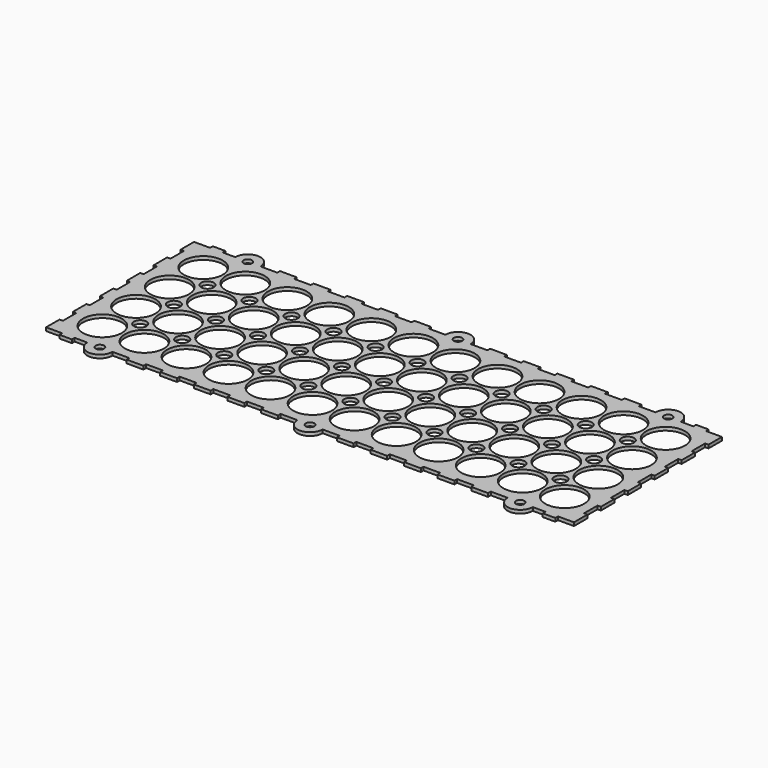
from build123d import *

# Parameters (mm, degrees)
F0_R     = 2
F0_R_2   = 9.25
F0_R_3   = 3
F1_DEPTH = 1.6


with BuildPart() as f1:
    # F0 (on Top) → F1 (new body)
    with BuildSketch(Plane.XY):
        with BuildLine():
            ThreePointArc((-94.017778, 44.461538), (-100, 50), (-105.982222, 44.461538))
            ThreePointArc((-105.982222, 44.461538), (-106.141058, 44.1331), (-106.480741, 44))
            Line((-106.480741, 44), (-111.5, 44))
            ThreePointArc((-111.5, 44), (-111.853553, 44.146447), (-112, 44.5))
            Line((-112, 44.5), (-112, 45.6))
            Line((-112, 45.6), (-118, 45.6))
            Line((-118, 45.6), (-118, 44.5))
            ThreePointArc((-118, 44.5), (-118.146447, 44.146447), (-118.5, 44))
            Line((-118.5, 44), (-124, 44))
            Line((-124, 44), (-125.6, 44))
            Line((-125.6, 44), (-125.6, 36))
            Line((-125.6, 36), (-124, 36))
            Line((-124, 36), (-124, 28))
            Line((-124, 28), (-125.6, 28))
            Line((-125.6, 28), (-125.6, 20))
            Line((-125.6, 20), (-124, 20))
            Line((-124, 20), (-124, 12))
            Line((-124, 12), (-125.6, 12))
            Line((-125.6, 12), (-125.6, 4))
            Line((-125.6, 4), (-124, 4))
            Line((-124, 4), (-124, -4))
            Line((-124, -4), (-125.6, -4))
            Line((-125.6, -4), (-125.6, -12))
            Line((-125.6, -12), (-124, -12))
            Line((-124, -12), (-124, -20))
            Line((-124, -20), (-125.6, -20))
            Line((-125.6, -20), (-125.6, -28))
            Line((-125.6, -28), (-124, -28))
            Line((-124, -28), (-124, -36))
            Line((-124, -36), (-125.6, -36))
            Line((-125.6, -36), (-125.6, -44))
            Line((-125.6, -44), (-124, -44))
            Line((-124, -44), (-118, -44))
            Line((-118, -44), (-118, -45.6))
            Line((-118, -45.6), (-112, -45.6))
            Line((-112, -45.6), (-112, -44))
            Line((-112, -44), (-106, -44))
            ThreePointArc((-106, -44), (-100, -50), (-94, -44))
            Line((-94, -44), (-86, -44))
            Line((-86, -44), (-86, -45.6))
            Line((-86, -45.6), (-78, -45.6))
            Line((-78, -45.6), (-78, -44))
            Line((-78, -44), (-70, -44))
            Line((-70, -44), (-70, -45.6))
            Line((-70, -45.6), (-62, -45.6))
            Line((-62, -45.6), (-62, -44))
            Line((-62, -44), (-54, -44))
            Line((-54, -44), (-54, -45.6))
            Line((-54, -45.6), (-46, -45.6))
            Line((-46, -45.6), (-46, -44))
            Line((-46, -44), (-38, -44))
            Line((-38, -44), (-38, -45.6))
            Line((-38, -45.6), (-30, -45.6))
            Line((-30, -45.6), (-30, -44))
            Line((-30, -44), (-22, -44))
            Line((-22, -44), (-22, -45.6))
            Line((-22, -45.6), (-14, -45.6))
            Line((-14, -45.6), (-14, -44))
            Line((-14, -44), (-6, -44))
            ThreePointArc((-6, -44), (0, -50), (6, -44))
            Line((6, -44), (14, -44))
            Line((14, -44), (14, -45.6))
            Line((14, -45.6), (22, -45.6))
            Line((22, -45.6), (22, -44))
            Line((22, -44), (30, -44))
            Line((30, -44), (30, -45.6))
            Line((30, -45.6), (38, -45.6))
            Line((38, -45.6), (38, -44))
            Line((38, -44), (46, -44))
            Line((46, -44), (46, -45.6))
            Line((46, -45.6), (54, -45.6))
            Line((54, -45.6), (54, -44))
            Line((54, -44), (62, -44))
            Line((62, -44), (62, -45.6))
            Line((62, -45.6), (70, -45.6))
            Line((70, -45.6), (70, -44))
            Line((70, -44), (78, -44))
            Line((78, -44), (78, -45.6))
            Line((78, -45.6), (86, -45.6))
            Line((86, -45.6), (86, -44))
            Line((86, -44), (94, -44))
            ThreePointArc((94, -44), (100, -50), (106, -44))
            Line((106, -44), (112, -44))
            Line((112, -44), (112, -45.6))
            Line((112, -45.6), (118, -45.6))
            Line((118, -45.6), (118, -44))
            Line((118, -44), (124, -44))
            Line((124, -44), (125.6, -44))
            Line((125.6, -44), (125.6, -36))
            Line((125.6, -36), (124, -36))
            Line((124, -36), (124, -28))
            Line((124, -28), (125.6, -28))
            Line((125.6, -28), (125.6, -20))
            Line((125.6, -20), (124, -20))
            Line((124, -20), (124, -12))
            Line((124, -12), (125.6, -12))
            Line((125.6, -12), (125.6, -4))
            Line((125.6, -4), (124, -4))
            Line((124, -4), (124, 4))
            Line((124, 4), (125.6, 4))
            Line((125.6, 4), (125.6, 12))
            Line((125.6, 12), (124, 12))
            Line((124, 12), (124, 20))
            Line((124, 20), (125.6, 20))
            Line((125.6, 20), (125.6, 28))
            Line((125.6, 28), (124, 28))
            Line((124, 28), (124, 36))
            Line((124, 36), (125.6, 36))
            Line((125.6, 36), (125.6, 44))
            Line((125.6, 44), (124, 44))
            Line((124, 44), (118, 44))
            Line((118, 44), (118, 45.6))
            Line((118, 45.6), (112, 45.6))
            Line((112, 45.6), (112, 44))
            Line((112, 44), (106, 44))
            ThreePointArc((106, 44), (100, 50), (94, 44))
            Line((94, 44), (86, 44))
            Line((86, 44), (86, 45.6))
            Line((86, 45.6), (78, 45.6))
            Line((78, 45.6), (78, 44))
            Line((78, 44), (70, 44))
            Line((70, 44), (70, 45.6))
            Line((70, 45.6), (62, 45.6))
            Line((62, 45.6), (62, 44))
            Line((62, 44), (54, 44))
            Line((54, 44), (54, 45.6))
            Line((54, 45.6), (46, 45.6))
            Line((46, 45.6), (46, 44))
            Line((46, 44), (38, 44))
            Line((38, 44), (38, 45.6))
            Line((38, 45.6), (30, 45.6))
            Line((30, 45.6), (30, 44))
            Line((30, 44), (22, 44))
            Line((22, 44), (22, 45.6))
            Line((22, 45.6), (14, 45.6))
            Line((14, 45.6), (14, 44.5))
            Line((14, 44.5), (14, 44))
            Line((14, 44), (13.5, 44))
            Line((13.5, 44), (6, 44))
            ThreePointArc((6, 44), (0.23094, 49.995554), (-5.982222, 44.461538))
            ThreePointArc((-5.982222, 44.461538), (-6.141058, 44.1331), (-6.480741, 44))
            Line((-6.480741, 44), (-13.5, 44))
            ThreePointArc((-13.5, 44), (-13.853553, 44.146447), (-14, 44.5))
            Line((-14, 44.5), (-14, 45.6))
            Line((-14, 45.6), (-22, 45.6))
            Line((-22, 45.6), (-22, 44.5))
            ThreePointArc((-22, 44.5), (-22.146447, 44.146447), (-22.5, 44))
            Line((-22.5, 44), (-29.5, 44))
            ThreePointArc((-29.5, 44), (-29.853553, 44.146447), (-30, 44.5))
            Line((-30, 44.5), (-30, 45.6))
            Line((-30, 45.6), (-38, 45.6))
            Line((-38, 45.6), (-38, 44.5))
            ThreePointArc((-38, 44.5), (-38.146447, 44.146447), (-38.5, 44))
            Line((-38.5, 44), (-45.5, 44))
            ThreePointArc((-45.5, 44), (-45.853553, 44.146447), (-46, 44.5))
            Line((-46, 44.5), (-46, 45.6))
            Line((-46, 45.6), (-54, 45.6))
            Line((-54, 45.6), (-54, 44))
            Line((-54, 44), (-61.5, 44))
            ThreePointArc((-61.5, 44), (-61.853553, 44.146447), (-62, 44.5))
            Line((-62, 44.5), (-62, 45.6))
            Line((-62, 45.6), (-70, 45.6))
            Line((-70, 45.6), (-70, 44.5))
            ThreePointArc((-70, 44.5), (-70.146447, 44.146447), (-70.5, 44))
            Line((-70.5, 44), (-77.5, 44))
            ThreePointArc((-77.5, 44), (-77.853553, 44.146447), (-78, 44.5))
            Line((-78, 44.5), (-78, 45.6))
            Line((-78, 45.6), (-86, 45.6))
            Line((-86, 45.6), (-86, 44.5))
            ThreePointArc((-86, 44.5), (-86.146447, 44.146447), (-86.5, 44))
            Line((-86.5, 44), (-93.519259, 44))
            ThreePointArc((-93.519259, 44), (-93.858942, 44.1331), (-94.017778, 44.461538))
        make_face()
        with Locations((-100, -44)):
            Circle(F0_R, mode=Mode.SUBTRACT)
        with Locations((-110, -30)):
            Circle(F0_R_2, mode=Mode.SUBTRACT)
        with Locations((-90, -30)):
            Circle(F0_R_2, mode=Mode.SUBTRACT)
        with Locations((-70, -30)):
            Circle(F0_R_2, mode=Mode.SUBTRACT)
        with Locations((-50, -30)):
            Circle(F0_R_2, mode=Mode.SUBTRACT)
        with Locations((-30, -30)):
            Circle(F0_R_2, mode=Mode.SUBTRACT)
        with Locations((-10, -30)):
            Circle(F0_R_2, mode=Mode.SUBTRACT)
        with Locations((-100, -20)):
            Circle(F0_R_3, mode=Mode.SUBTRACT)
        with Locations((-80, -20)):
            Circle(F0_R_3, mode=Mode.SUBTRACT)
        with Locations((-110, -10)):
            Circle(F0_R_2, mode=Mode.SUBTRACT)
        with Locations((-90, -10)):
            Circle(F0_R_2, mode=Mode.SUBTRACT)
        with Locations((-70, -10)):
            Circle(F0_R_2, mode=Mode.SUBTRACT)
        with Locations((-60, -20)):
            Circle(F0_R_3, mode=Mode.SUBTRACT)
        with Locations((-40, -20)):
            Circle(F0_R_3, mode=Mode.SUBTRACT)
        with Locations((-20, -20)):
            Circle(F0_R_3, mode=Mode.SUBTRACT)
        with Locations((-50, -10)):
            Circle(F0_R_2, mode=Mode.SUBTRACT)
        with Locations((-30, -10)):
            Circle(F0_R_2, mode=Mode.SUBTRACT)
        with Locations((-10, -10)):
            Circle(F0_R_2, mode=Mode.SUBTRACT)
        with Locations((0, -44)):
            Circle(F0_R, mode=Mode.SUBTRACT)
        with Locations((10, -30)):
            Circle(F0_R_2, mode=Mode.SUBTRACT)
        with Locations((30, -30)):
            Circle(F0_R_2, mode=Mode.SUBTRACT)
        with Locations((50, -30)):
            Circle(F0_R_2, mode=Mode.SUBTRACT)
        with Locations((100, -44)):
            Circle(F0_R, mode=Mode.SUBTRACT)
        with Locations((70, -30)):
            Circle(F0_R_2, mode=Mode.SUBTRACT)
        with Locations((90, -30)):
            Circle(F0_R_2, mode=Mode.SUBTRACT)
        with Locations((110, -30)):
            Circle(F0_R_2, mode=Mode.SUBTRACT)
        with Locations((0, -20)):
            Circle(F0_R_3, mode=Mode.SUBTRACT)
        with Locations((20, -20)):
            Circle(F0_R_3, mode=Mode.SUBTRACT)
        with Locations((40, -20)):
            Circle(F0_R_3, mode=Mode.SUBTRACT)
        with Locations((60, -20)):
            Circle(F0_R_3, mode=Mode.SUBTRACT)
        with Locations((10, -10)):
            Circle(F0_R_2, mode=Mode.SUBTRACT)
        with Locations((30, -10)):
            Circle(F0_R_2, mode=Mode.SUBTRACT)
        with Locations((50, -10)):
            Circle(F0_R_2, mode=Mode.SUBTRACT)
        with Locations((80, -20)):
            Circle(F0_R_3, mode=Mode.SUBTRACT)
        with Locations((100, -20)):
            Circle(F0_R_3, mode=Mode.SUBTRACT)
        with Locations((70, -10)):
            Circle(F0_R_2, mode=Mode.SUBTRACT)
        with Locations((90, -10)):
            Circle(F0_R_2, mode=Mode.SUBTRACT)
        with Locations((110, -10)):
            Circle(F0_R_2, mode=Mode.SUBTRACT)
        with Locations((-100, 0)):
            Circle(F0_R_3, mode=Mode.SUBTRACT)
        with Locations((-110, 10)):
            Circle(F0_R_2, mode=Mode.SUBTRACT)
        with Locations((-80, 0)):
            Circle(F0_R_3, mode=Mode.SUBTRACT)
        with Locations((-90, 10)):
            Circle(F0_R_2, mode=Mode.SUBTRACT)
        with Locations((-70, 10)):
            Circle(F0_R_2, mode=Mode.SUBTRACT)
        with Locations((-100, 20)):
            Circle(F0_R_3, mode=Mode.SUBTRACT)
        with Locations((-80, 20)):
            Circle(F0_R_3, mode=Mode.SUBTRACT)
        with Locations((-60, 0)):
            Circle(F0_R_3, mode=Mode.SUBTRACT)
        with Locations((-40, 0)):
            Circle(F0_R_3, mode=Mode.SUBTRACT)
        with Locations((-50, 10)):
            Circle(F0_R_2, mode=Mode.SUBTRACT)
        with Locations((-20, 0)):
            Circle(F0_R_3, mode=Mode.SUBTRACT)
        with Locations((-30, 10)):
            Circle(F0_R_2, mode=Mode.SUBTRACT)
        with Locations((-10, 10)):
            Circle(F0_R_2, mode=Mode.SUBTRACT)
        with Locations((-60, 20)):
            Circle(F0_R_3, mode=Mode.SUBTRACT)
        with Locations((-40, 20)):
            Circle(F0_R_3, mode=Mode.SUBTRACT)
        with Locations((-20, 20)):
            Circle(F0_R_3, mode=Mode.SUBTRACT)
        with Locations((-110, 30)):
            Circle(F0_R_2, mode=Mode.SUBTRACT)
        with Locations((-90, 30)):
            Circle(F0_R_2, mode=Mode.SUBTRACT)
        with Locations((-70, 30)):
            Circle(F0_R_2, mode=Mode.SUBTRACT)
        with Locations((-100, 44)):
            Circle(F0_R, mode=Mode.SUBTRACT)
        with Locations((-50, 30)):
            Circle(F0_R_2, mode=Mode.SUBTRACT)
        with Locations((-30, 30)):
            Circle(F0_R_2, mode=Mode.SUBTRACT)
        with Locations((-10, 30)):
            Circle(F0_R_2, mode=Mode.SUBTRACT)
        Circle(F0_R_3, mode=Mode.SUBTRACT)
        with Locations((20, 0)):
            Circle(F0_R_3, mode=Mode.SUBTRACT)
        with Locations((10, 10)):
            Circle(F0_R_2, mode=Mode.SUBTRACT)
        with Locations((30, 10)):
            Circle(F0_R_2, mode=Mode.SUBTRACT)
        with Locations((40, 0)):
            Circle(F0_R_3, mode=Mode.SUBTRACT)
        with Locations((60, 0)):
            Circle(F0_R_3, mode=Mode.SUBTRACT)
        with Locations((50, 10)):
            Circle(F0_R_2, mode=Mode.SUBTRACT)
        with Locations((0, 20)):
            Circle(F0_R_3, mode=Mode.SUBTRACT)
        with Locations((20, 20)):
            Circle(F0_R_3, mode=Mode.SUBTRACT)
        with Locations((40, 20)):
            Circle(F0_R_3, mode=Mode.SUBTRACT)
        with Locations((60, 20)):
            Circle(F0_R_3, mode=Mode.SUBTRACT)
        with Locations((80, 0)):
            Circle(F0_R_3, mode=Mode.SUBTRACT)
        with Locations((70, 10)):
            Circle(F0_R_2, mode=Mode.SUBTRACT)
        with Locations((90, 10)):
            Circle(F0_R_2, mode=Mode.SUBTRACT)
        with Locations((100, 0)):
            Circle(F0_R_3, mode=Mode.SUBTRACT)
        with Locations((110, 10)):
            Circle(F0_R_2, mode=Mode.SUBTRACT)
        with Locations((80, 20)):
            Circle(F0_R_3, mode=Mode.SUBTRACT)
        with Locations((100, 20)):
            Circle(F0_R_3, mode=Mode.SUBTRACT)
        with Locations((10, 30)):
            Circle(F0_R_2, mode=Mode.SUBTRACT)
        with Locations((30, 30)):
            Circle(F0_R_2, mode=Mode.SUBTRACT)
        with Locations((50, 30)):
            Circle(F0_R_2, mode=Mode.SUBTRACT)
        with Locations((0, 44)):
            Circle(F0_R, mode=Mode.SUBTRACT)
        with Locations((70, 30)):
            Circle(F0_R_2, mode=Mode.SUBTRACT)
        with Locations((90, 30)):
            Circle(F0_R_2, mode=Mode.SUBTRACT)
        with Locations((110, 30)):
            Circle(F0_R_2, mode=Mode.SUBTRACT)
        with Locations((100, 44)):
            Circle(F0_R, mode=Mode.SUBTRACT)
    extrude(amount=F1_DEPTH)


solid = f1.part
